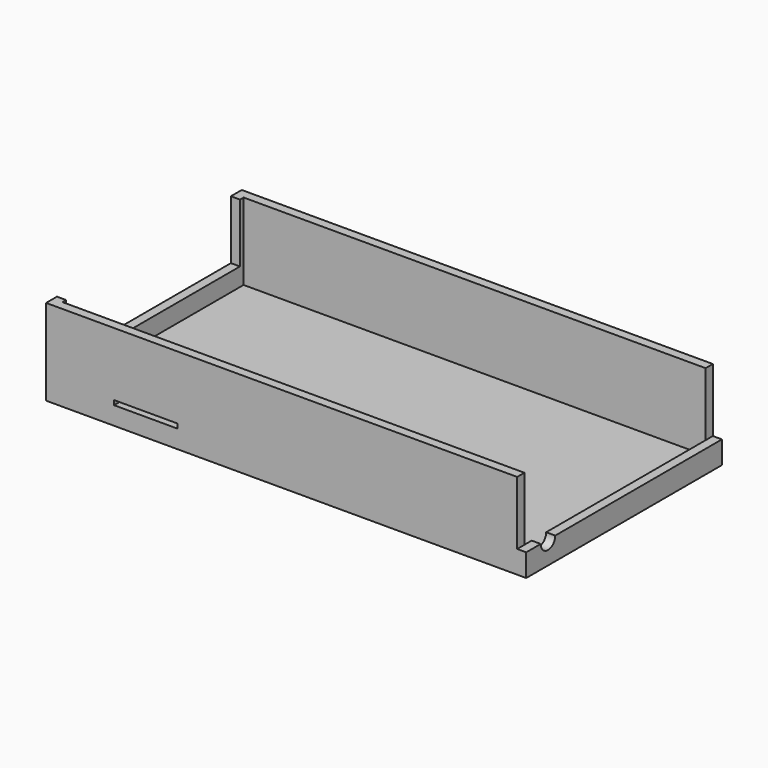
from build123d import *

# Parameters (mm, degrees)
SKETCH001_W     = 106
SKETCH001_H     = 54
PAD_DEPTH       = 5
SKETCH_W        = 102
SKETCH_H        = 50
POCKET_DEPTH    = 3
SKETCH002_R     = 2
POCKET001_DEPTH = 2
SKETCH004_W     = 14
SKETCH004_H     = 3
POCKET002_DEPTH = 5
SKETCH005_W     = 2
SKETCH005_H     = 54
PAD001_DEPTH    = 14
SKETCH006_W     = 48
SKETCH006_H     = 13
POCKET003_DEPTH = 2
SKETCH007_W     = 102
SKETCH007_H     = 2
PAD002_DEPTH    = 14
SKETCH008_W     = 102
SKETCH008_H     = 2
PAD003_DEPTH    = 14


with BuildPart() as part:
    # Sketch001 → Pad (new body)
    with BuildSketch(Plane.XY):
        Rectangle(SKETCH001_W, SKETCH001_H)
    extrude(amount=-PAD_DEPTH)

    # Sketch → Pocket (cut)
    with BuildSketch(Plane.XY):
        Rectangle(SKETCH_W, SKETCH_H)
    extrude(amount=-POCKET_DEPTH, mode=Mode.SUBTRACT)

    # Sketch002 (on Face3 of Pocket) → Pocket001 (cut)
    with BuildSketch(Plane.YZ.offset(53)):
        with Locations((-21, 0)):
            Circle(SKETCH002_R)
    extrude(amount=-POCKET001_DEPTH, mode=Mode.SUBTRACT)

    # Sketch004 (on Face6 of Pocket) → Pocket002 (cut)
    with BuildSketch(Plane.XZ.offset(27)):
        with Locations((-31, 0.5)):
            Rectangle(SKETCH004_W, SKETCH004_H)
    extrude(amount=-POCKET002_DEPTH, mode=Mode.SUBTRACT)

    # Sketch005 (on Face4 of Pocket002) → Pad001 (join)
    with BuildSketch(Plane.XY):
        with Locations((-52, 0)):
            Rectangle(SKETCH005_W, SKETCH005_H)
    extrude(amount=PAD001_DEPTH)

    # Sketch006 (on Face8 of Pad001) → Pocket003 (cut)
    with BuildSketch(Plane(origin=(-53, 0, 0), x_dir=(0, -1, 0), z_dir=(-1, 0, 0))):
        with Locations((0, 7.5)):
            Rectangle(SKETCH006_W, SKETCH006_H)
    extrude(amount=-POCKET003_DEPTH, mode=Mode.SUBTRACT)

    # Sketch007 (on Face5 of Pocket003) → Pad002 (join)
    with BuildSketch(Plane.XY):
        with Locations((0, 26)):
            Rectangle(SKETCH007_W, SKETCH007_H)
    extrude(amount=PAD002_DEPTH)

    # Sketch008 (on Face11 of Pad002) → Pad003 (join)
    with BuildSketch(Plane.XY):
        with Locations((0, -26)):
            Rectangle(SKETCH008_W, SKETCH008_H)
    extrude(amount=PAD003_DEPTH)


solid = part.part
